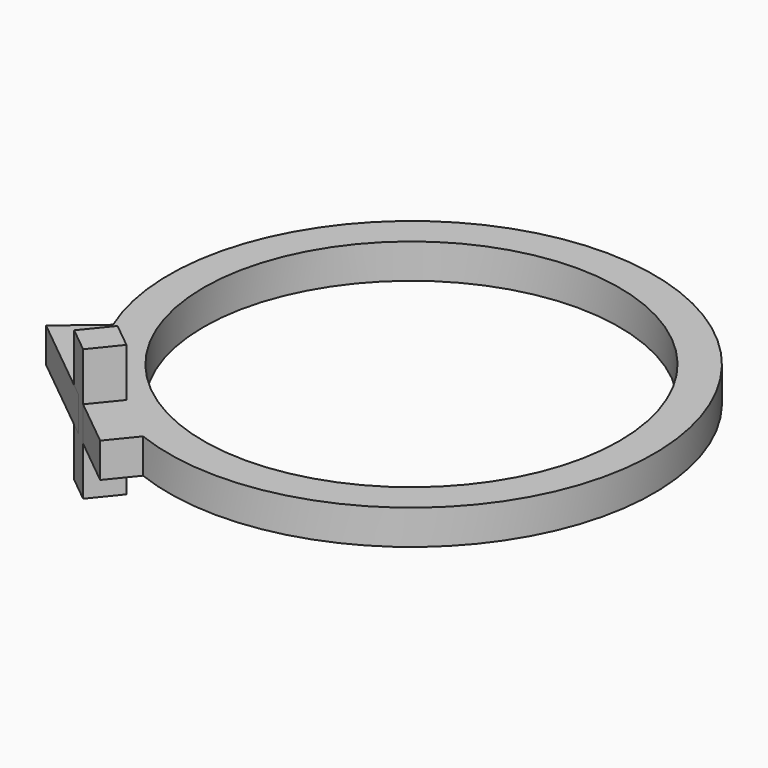
from build123d import *

# Parameters (mm, degrees)
F0_R     = 88.9
F0_R_2   = 76.2
F1_DEPTH = 12.7
F3_DEPTH = 12.7
F4_W     = 12.015413
F4_H     = 48.26
F5_DEPTH = 12.7


with BuildPart() as f1:
    # F0 (on Top) → F1 (new body)
    with BuildSketch(Plane.XY):
        Circle(F0_R)
        Circle(F0_R_2, mode=Mode.SUBTRACT)
    extrude(amount=F1_DEPTH)

    # F2 (on face) → F3 (join)
    with BuildSketch(Plane(origin=(0, 0, 0), x_dir=(1, 0, 0), z_dir=(0, 0, -1))):
        with BuildLine():
            Line((-96.710376, 46.583939), (-82.060736, 34.194234))
            ThreePointArc((-82.060736, 34.194234), (-59.732506, 61.256656), (-32.116206, 82.896075))
            Line((-32.116206, 82.896075), (-40.030304, 92.636503))
            Line((-40.030304, 92.636503), (-96.710376, 46.583939))
        make_face()
    extrude(amount=-F3_DEPTH)

    # F4 (on face) → F5 (join)
    with BuildSketch(Plane(origin=(-61.255331, -75.391167, 0), x_dir=(0.776114, -0.630593, 0), z_dir=(-0.630593, -0.776114, 0))):
        with Locations((-1.727114, 6.35)):
            Rectangle(F4_W, F4_H)
    extrude(amount=-F5_DEPTH)


solid = f1.part
